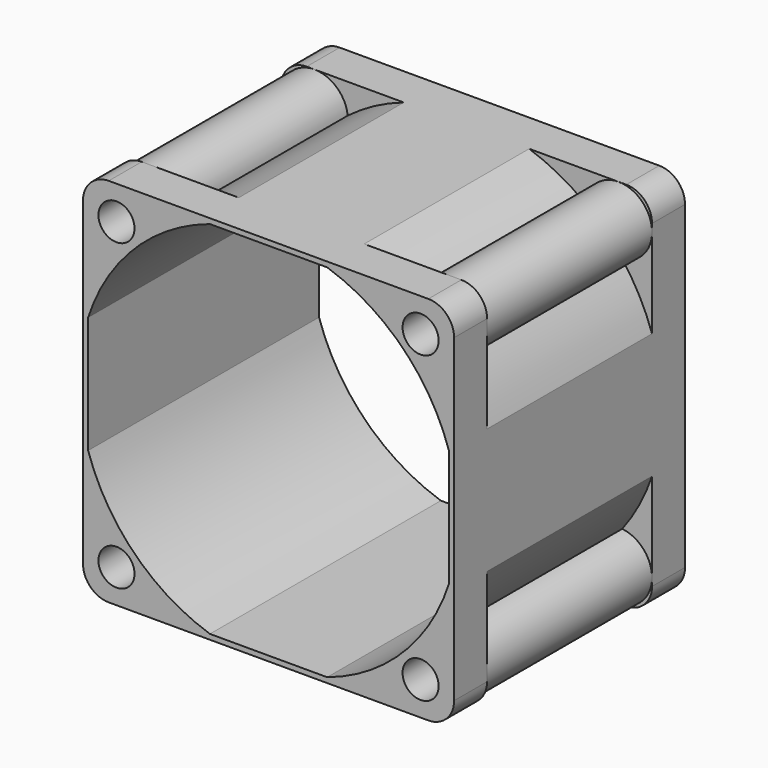
from build123d import *

# Parameters (mm, degrees)
F0_W     = 36
F0_H     = 36
F0_R     = 1.75
F1_DEPTH = 14
F3_DEPTH = 10
F4_R     = 2.5


with BuildPart() as f1:
    # F0 (on Front) → F1 (new body, symmetric)
    with BuildSketch(Plane.XZ):
        Rectangle(F0_W, F0_H)
        with Locations((-14.75, -14.75)):
            Circle(F0_R, mode=Mode.SUBTRACT)
        with Locations((14.75, -14.75)):
            Circle(F0_R, mode=Mode.SUBTRACT)
        with Locations((-14.75, 14.75)):
            Circle(F0_R, mode=Mode.SUBTRACT)
        with BuildLine():
            ThreePointArc((-17.5, 5.6841885964), (-13.0107647738, 13.0107647738), (-5.6841885964, 17.5))
            Line((-5.6841885964, 17.5), (5.6841885964, 17.5))
            ThreePointArc((5.6841885964, 17.5), (13.0107647738, 13.0107647738), (17.5, 5.6841885964))
            Line((17.5, 5.6841885964), (17.5, -5.6841885964))
            ThreePointArc((17.5, -5.6841885964), (13.0107647738, -13.0107647738), (5.6841885964, -17.5))
            Line((5.6841885964, -17.5), (-5.6841885964, -17.5))
            ThreePointArc((-5.6841885964, -17.5), (-13.0107647738, -13.0107647738), (-17.5, -5.6841885964))
            Line((-17.5, -5.6841885964), (-17.5, 5.6841885964))
        make_face(mode=Mode.SUBTRACT)
        with Locations((14.75, 14.75)):
            Circle(F0_R, mode=Mode.SUBTRACT)
    extrude(amount=F1_DEPTH, both=True)

    # F2 (on Front) → F3 (cut, symmetric)
    with BuildSketch(Plane.XZ):
        with BuildLine():
            ThreePointArc((-15.1093137054, 11.5199235828), (-17.0480970389, 17.0480970389), (-11.5199235828, 15.1093137054))
            ThreePointArc((-11.5199235828, 15.1093137054), (-8.9192295863, 16.7763924485), (-6.0827625303, 18))
            Line((-6.0827625303, 18), (-6.0827625303, 19))
            Line((-6.0827625303, 19), (-19, 19))
            Line((-19, 19), (-19, 6.0827625303))
            Line((-19, 6.0827625303), (-18, 6.0827625303))
            ThreePointArc((-18, 6.0827625303), (-16.7763924485, 8.9192295863), (-15.1093137054, 11.5199235828))
        make_face()
        with BuildLine():
            Line((19, 6.0827625303), (19, 19))
            Line((19, 19), (6.0827625303, 19))
            Line((6.0827625303, 19), (6.0827625303, 18))
            ThreePointArc((6.0827625303, 18), (8.9192295863, 16.7763924485), (11.5199235828, 15.1093137054))
            ThreePointArc((11.5199235828, 15.1093137054), (17.0480970389, 17.0480970389), (15.1093137054, 11.5199235828))
            ThreePointArc((15.1093137054, 11.5199235828), (16.7763924485, 8.9192295863), (18, 6.0827625303))
            Line((18, 6.0827625303), (19, 6.0827625303))
        make_face()
        with BuildLine():
            Line((-19, -6.0827625303), (-19, -19))
            Line((-19, -19), (-6.0827625303, -19))
            Line((-6.0827625303, -19), (-6.0827625303, -18))
            ThreePointArc((-6.0827625303, -18), (-8.9192295863, -16.7763924485), (-11.5199235828, -15.1093137054))
            ThreePointArc((-11.5199235828, -15.1093137054), (-17.0480970389, -17.0480970389), (-15.1093137054, -11.5199235828))
            ThreePointArc((-15.1093137054, -11.5199235828), (-16.7763924485, -8.9192295863), (-18, -6.0827625303))
            Line((-18, -6.0827625303), (-19, -6.0827625303))
        make_face()
        with BuildLine():
            Line((6.0827625303, -19), (19, -19))
            Line((19, -19), (19, -6.0827625303))
            Line((19, -6.0827625303), (18, -6.0827625303))
            ThreePointArc((18, -6.0827625303), (16.7763924485, -8.9192295863), (15.1093137054, -11.5199235828))
            ThreePointArc((15.1093137054, -11.5199235828), (17.0480970389, -17.0480970389), (11.5199235828, -15.1093137054))
            ThreePointArc((11.5199235828, -15.1093137054), (8.9192295863, -16.7763924485), (6.0827625303, -18))
            Line((6.0827625303, -18), (6.0827625303, -19))
        make_face()
    extrude(amount=F3_DEPTH, both=True, mode=Mode.SUBTRACT)

    # F4
    f4_edges = [f1.edges().sort_by_distance(p)[0] for p in [
        (18, -12, 18),
        (18, 12, 18),
        (18, -12, -18),
        (18, 12, -18),
        (-18, -12, 18),
        (-18, 12, 18),
        (-18, 12, -18),
        (-18, -12, -18),
    ]]
    fillet(f4_edges, radius=F4_R)


solid = f1.part
